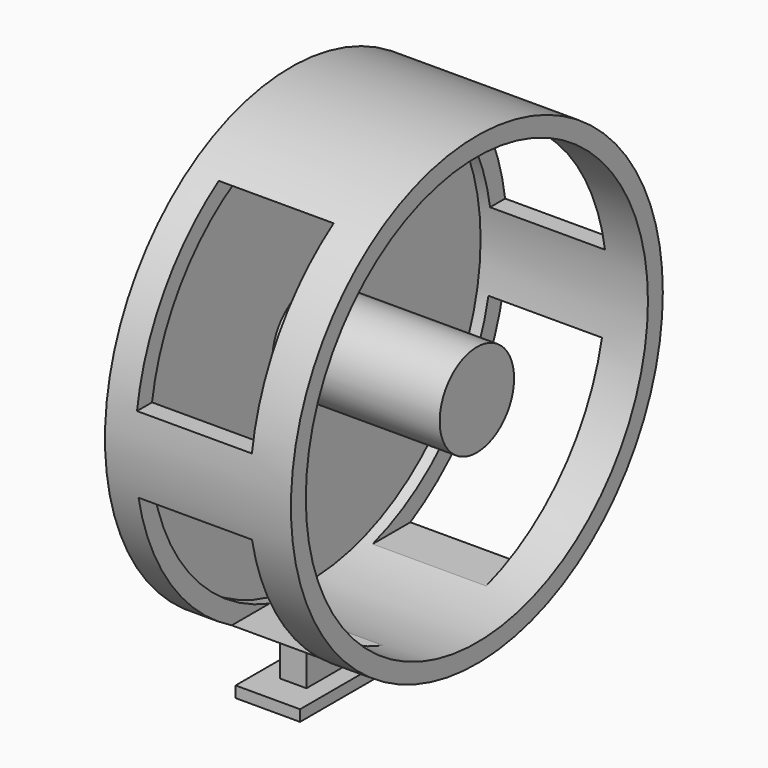
from build123d import *

# Parameters (mm, degrees)
F0_R      = 31.75
F1_DEPTH  = 25.4
F2_T      = -2.54
F3_W      = 15.6957409345
F3_H      = 22.0123222098
F3_W_2    = 15.504329931
F3_H_2    = 21.820908878
F4_DEPTH  = 58.166
F6_W      = 3.6368169822
F6_H      = 23.3522010967
F7_DEPTH  = 5.334
F8_W      = 8.804930374
F8_H      = 30.4344259202
F8_W_2    = 3.6368169822
F8_H_2    = 23.3522010967
F9_DEPTH  = 1.524
F10_R     = 6.35
F11_DEPTH = 22.86


with BuildPart() as f1:
    # F0 (on Right) → F1 (new body)
    with BuildSketch(Plane.YZ):
        Circle(F0_R)
    extrude(amount=F1_DEPTH)

    # F2
    f2_openings = [f1.faces().sort_by_distance(p)[0] for p in [
        (25.4, 0, 0),
    ]]
    offset(amount=F2_T, openings=f2_openings)

    # F3 (on Front) → F4 (cut, symmetric)
    with BuildSketch(Plane.XZ):
        with Locations((11.9632177521, 15.5043308623)):
            Rectangle(F3_W, F3_H)
        with Locations((11.8675122503, -16.9399164151)):
            Rectangle(F3_W_2, F3_H_2)
    extrude(amount=F4_DEPTH, both=True, mode=Mode.SUBTRACT)

    # F6 (on offset) → F7 (join)
    with BuildSketch(Plane.XY.offset(-29.21)):
        with Locations((9.5705741551, 0.0957059674)):
            Rectangle(F6_W, F6_H)
    extrude(amount=-F7_DEPTH)

    # F8 (on face) → F9 (join)
    with BuildSketch(Plane(origin=(0, 0, -34.544), x_dir=(1, 0, 0), z_dir=(0, 0, -1))):
        with Locations((9.4748688862, 0.5742348731)):
            Rectangle(F8_W, F8_H)
        with Locations((9.5705741551, -0.0957059674)):
            Rectangle(F8_W_2, F8_H_2, mode=Mode.SUBTRACT)
        with Locations((9.5705741551, -0.0957059674)):
            Rectangle(F8_W_2, F8_H_2)
    extrude(amount=F9_DEPTH)

    # F10 (on face) → F11 (join)
    with BuildSketch(Plane.YZ.offset(2.54)):
        Circle(F10_R)
    extrude(amount=F11_DEPTH)


solid = f1.part
